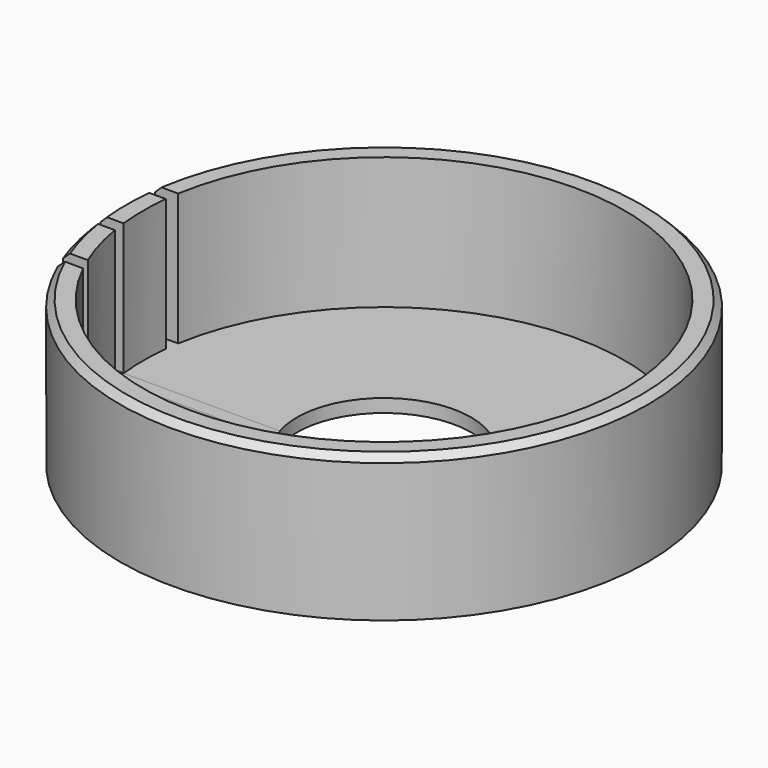
from build123d import *

# Parameters (mm, degrees)
SKETCH_R        = 40
SKETCH_R_2      = 13.2
PAD_DEPTH       = 2
SKETCH001_R     = 40
SKETCH001_R_2   = 36.5
PAD001_DEPTH    = 20
SKETCH002_W     = 2
SKETCH002_H     = 26.167402
SKETCH002_H_2   = 24.922537
SKETCH002_H_3   = 27.566788
POCKET_DEPTH    = 40.001
CHAMFER_SIZE    = 1
CHAMFER001_SIZE = 1
CHAMFER002_SIZE = 1


with BuildPart() as part:
    # Sketch → Pad (new body)
    with BuildSketch(Plane.XY):
        Circle(SKETCH_R)
        Circle(SKETCH_R_2, mode=Mode.SUBTRACT)
    extrude(amount=PAD_DEPTH)

    # Sketch001 (on Face4 of Pad) → Pad001 (join)
    with BuildSketch(Plane.XY.offset(2)):
        Circle(SKETCH001_R)
        Circle(SKETCH001_R_2, mode=Mode.SUBTRACT)
    extrude(amount=PAD001_DEPTH)

    # Sketch002 → Pocket (cut, through all)
    with BuildSketch(Plane.YZ):
        with Locations((5, 15.083701)):
            Rectangle(SKETCH002_W, SKETCH002_H)
        with Locations((-5, 14.461268)):
            Rectangle(SKETCH002_W, SKETCH002_H_2)
        with Locations((-15, 15.783394)):
            Rectangle(SKETCH002_W, SKETCH002_H_3)
    extrude(amount=-POCKET_DEPTH, mode=Mode.SUBTRACT)

    # Chamfer
    chamfer_edges = [part.edges().sort_by_distance(p)[0] for p in [
        (3.008522, 39.8867, 22),
    ]]
    chamfer(chamfer_edges, length=CHAMFER_SIZE)

    # Chamfer001
    chamfer001_edges = [part.edges().sort_by_distance(p)[0] for p in [
        (-40, 0, 22),
    ]]
    chamfer(chamfer001_edges, length=CHAMFER001_SIZE)

    # Chamfer002
    chamfer002_edges = [part.edges().sort_by_distance(p)[0] for p in [
        (-38.715902, -10.053803, 22),
    ]]
    chamfer(chamfer002_edges, length=CHAMFER002_SIZE)


solid = part.part
